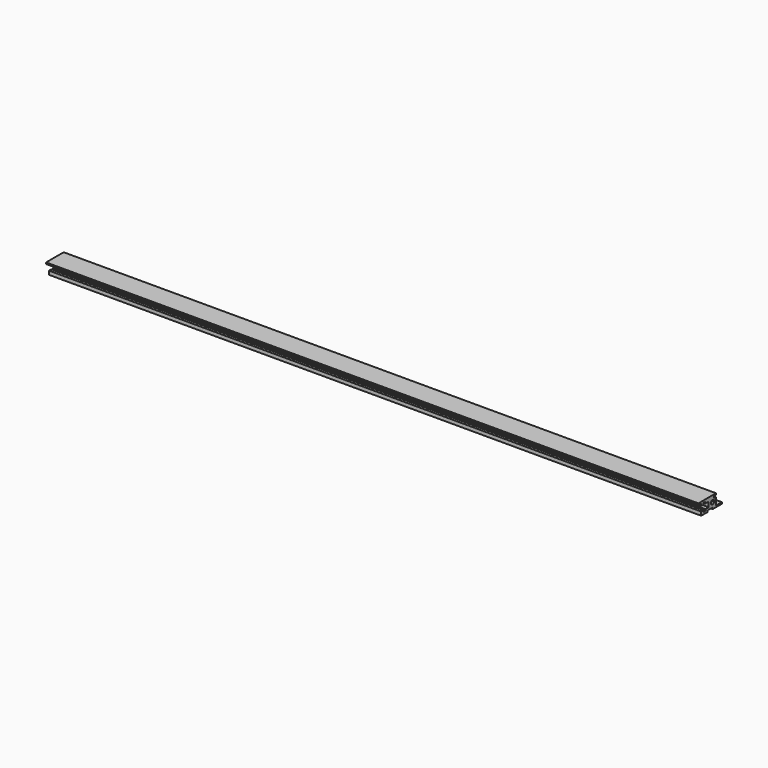
from build123d import *

# Parameters (mm, degrees)
F2_DEPTH = 528.3
F3_R     = 1.65
F4_DEPTH = 528.3


with BuildPart() as f2:
    # F1 (on Right) → F2 (new body)
    with BuildSketch(Plane.YZ):
        Polygon((-37.3753120244, 19.9501804985), (-37.3753120244, 18.7501804985), (-34.5753120244, 18.7501804985), (-34.5753120244, 16.9501804985), (-32.3157645762, 16.9501804985), (-32.3157645762, 18.2001804985), (-30.3341764957, 18.2001804985), (-30.3341764957, 16.9501804985), (-26.9753120244, 16.9501804985), (-26.9753120244, 12.9501804985), (-30.3341764957, 12.9501804985), (-30.3341764957, 11.7001804985), (-32.3157645762, 11.7001804985), (-32.3157645762, 12.9501804985), (-34.5753120244, 12.9501804985), (-34.5753120244, 9.9501804985), (-28.0753120244, 9.9501804985), (-28.0753120244, 11.1501804985), (-23.0753120244, 11.1501804985), (-23.0753120244, 9.9501804985), (-13.5753120244, 9.9501804985), (-13.5753120244, 11.1501804985), (-19.5753120244, 11.1501804985), (-19.5753120244, 14.3501804985), (-21.5753120244, 14.3501804985), (-21.5753120244, 15.5501804985), (-19.5753120244, 15.5501804985), (-19.5753120244, 17.3501804985), (-21.5753120244, 17.3501804985), (-21.5753120244, 18.7501804985), (-19.5753120244, 18.7501804985), (-19.5753120244, 19.9501804985), (-21.5753120244, 19.9501804985), align=None)
    extrude(amount=F2_DEPTH)

    # F3 (on face) → F4 (cut)
    with BuildSketch(Plane.YZ.offset(528.3)):
        with Locations((-23.0753120244, 14.9501804985)):
            Circle(F3_R)
    extrude(amount=-F4_DEPTH, mode=Mode.SUBTRACT)


solid = f2.part
